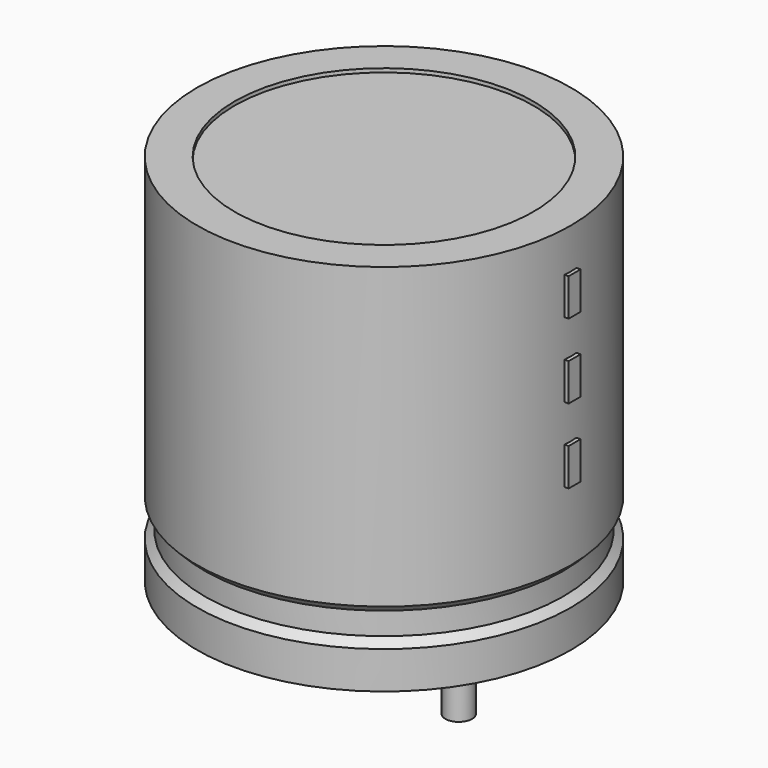
from build123d import *

# Parameters (mm, degrees)
SKETCH002_W  = 5.75
SKETCH002_H  = 12.25
SKETCH003_R  = 0.45
PAD_DEPTH    = 4.25
SKETCH004_W  = 0.5
SKETCH004_H  = 1.25
PAD001_DEPTH = 6.375


with BuildPart() as revolution:
    # Sketch → Revolution (revolve)
    with BuildSketch(Plane.XZ):
        Polygon((-3.75, 0.1), (-3.75, 1.35), (-3.5, 1.6), (-3.5, 2.35), (-3.75, 2.6), (-3.75, 12.6), (-2.5, 12.6), (-2.5, 0.1), align=None)
    revolve(axis=Axis((2.5, 0, 7.548619), (0, 0, -1)))


with BuildPart() as revolution001:
    # Sketch002 → Revolution001 (revolve)
    with BuildSketch(Plane.XZ):
        with Locations((-0.375, 6.35)):
            Rectangle(SKETCH002_W, SKETCH002_H)
    revolve(axis=Axis((2.5, 0, 4.680116), (0, 0, -1)))


with BuildPart() as pad:
    # Sketch003 → Pad (new body)
    with BuildSketch(Plane.XY.offset(1.25)):
        Circle(SKETCH003_R)
        with Locations((5, 0)):
            Circle(SKETCH003_R)
    extrude(amount=-PAD_DEPTH)


with BuildPart() as pad001:
    # Sketch004 → Pad001 (new body)
    with BuildSketch(Plane.YZ.offset(2.5)):
        with Locations((0, 5.625)):
            Rectangle(SKETCH004_W, SKETCH004_H)
        with Locations((0, 8.125)):
            Rectangle(SKETCH004_W, SKETCH004_H)
        with Locations((0, 10.625)):
            Rectangle(SKETCH004_W, SKETCH004_H)
    extrude(amount=PAD001_DEPTH)


solid = Compound([revolution.part, revolution001.part, pad.part, pad001.part])
